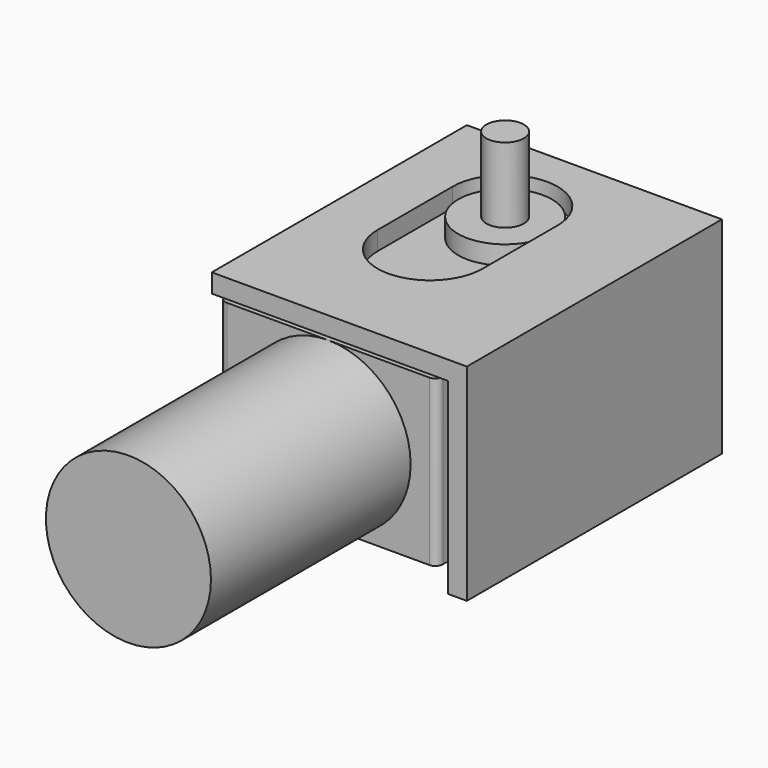
from build123d import *

# Parameters (mm, degrees)
SKETCH_W       = 58
SKETCH_H       = 82.5
PAD_DEPTH      = 22
PAD_DEPTH_BACK = 22
SKETCH001_R    = 12.5
PAD001_DEPTH   = 5
SKETCH002_R    = 5
PAD002_DEPTH   = 20
SKETCH003_R    = 4
PAD003_DEPTH   = 2.5
FILLET_R       = 2
SKETCH004_R    = 22
PAD004_DEPTH   = 66.53
SKETCH005_W    = 68
SKETCH005_H    = 85
PAD005_DEPTH   = 5
SKETCH006_W    = 5
SKETCH006_H    = 85
PAD006_DEPTH   = 50


with BuildPart() as part:
    # Sketch → Pad (new body, two sides)
    with BuildSketch(Plane.XY) as pad_sk:
        with Locations((29, -41.25)):
            Rectangle(SKETCH_W, SKETCH_H)
    extrude(amount=PAD_DEPTH)
    extrude(pad_sk.sketch, amount=-PAD_DEPTH_BACK)

    # Sketch001 (on Face6 of Pad) → Pad001 (join)
    with BuildSketch(Plane.XY.offset(22)):
        with Locations((29, -23.5)):
            Circle(SKETCH001_R)
    pad001 = extrude(amount=PAD001_DEPTH)

    # Mirrored: Pad001 across XY
    add(pad001.mirror(Plane.XY))

    # Sketch002 (on Face10 of Mirrored) → Pad002 (join)
    with BuildSketch(Plane.XY.offset(27)):
        with Locations((29, -23.5)):
            Circle(SKETCH002_R)
    pad002 = extrude(amount=PAD002_DEPTH)

    # Mirrored001: Pad002 across XY
    add(pad002.mirror(Plane.XY))

    # Sketch003 (on Face5 of Mirrored001) → Pad003 (join)
    with BuildSketch(Plane.XY.offset(22)):
        with Locations((10, -12.57)):
            Circle(SKETCH003_R)
        with Locations((48, -12.57)):
            Circle(SKETCH003_R)
        with Locations((10, -68.57)):
            Circle(SKETCH003_R)
        with Locations((48, -54.57)):
            Circle(SKETCH003_R)
    pad003 = extrude(amount=PAD003_DEPTH)

    # Mirrored002: Pad003 across XY
    add(pad003.mirror(Plane.XY))

    # Fillet
    fillet_edges = [part.edges().sort_by_distance(p)[0] for p in [
        (58, 0, 0),
        (0, 0, 0),
        (58, -82.5, 0),
        (0, -82.5, 0),
    ]]
    fillet(fillet_edges, radius=FILLET_R)

    # Sketch004 (on Face10 of Fillet) → Pad004 (join)
    with BuildSketch(Plane.XZ.offset(82.5)):
        with Locations((29, 0)):
            Circle(SKETCH004_R)
    extrude(amount=PAD004_DEPTH)

    # Sketch005 (on Face32 of Pad004) → Pad005 (join)
    with BuildSketch(Plane.XY.offset(24.5)):
        with Locations((34, -42.5)):
            Rectangle(SKETCH005_W, SKETCH005_H)
        with BuildLine():
            ThreePointArc((43, -23.5), (29, -9.5), (15, -23.5))
            Line((15, -23.5), (15, -48.5))
            ThreePointArc((15, -48.5), (29, -62.5), (43, -48.5))
            Line((43, -48.5), (43, -23.5))
        make_face(mode=Mode.SUBTRACT)
    extrude(amount=PAD005_DEPTH)

    # Sketch006 (on Face4 of Pad005) → Pad006 (join)
    with BuildSketch(Plane(origin=(0, 0, 24.5), x_dir=(1, 0, 0), z_dir=(0, 0, -1))):
        with Locations((65.5, 42.5)):
            Rectangle(SKETCH006_W, SKETCH006_H)
    extrude(amount=PAD006_DEPTH)


solid = part.part
